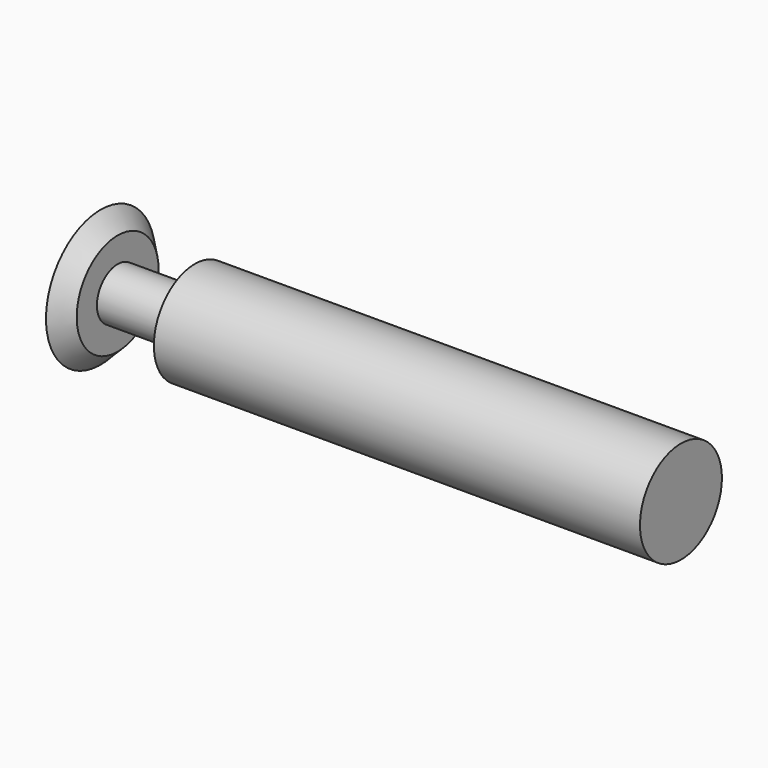
from build123d import *


with BuildPart() as f1:
    # F0 (on Top) → F1 (revolve)
    with BuildSketch(Plane.XY):
        Polygon((0, 6.35), (0, 0), (53.975, 0), (53.975, 4.7625), (8.763, 4.7625), (8.763, 2.413), (3.937, 2.413), (1.5875, 2.413), (1.5875, 4.7625), align=None)
    revolve(axis=Axis((-2.859524, 0, 0), (-1, 0, 0)))


solid = f1.part
